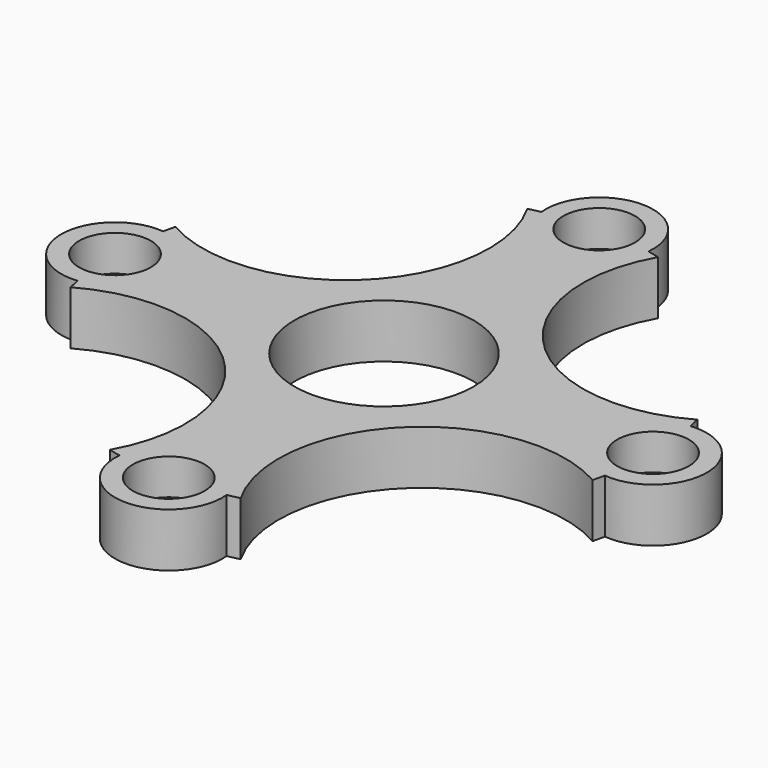
from build123d import *

# Parameters (mm, degrees)
F0_R      = 20
F1_DEPTH  = 3
F2_R      = 5
F3_DEPTH  = 25
F4_R      = 2
F5_DEPTH  = 2
F6_R      = 8
F7_DEPTH  = 25
F8_SIZE   = 1.5
F9_R      = 28.420768
F10_DEPTH = 25


with BuildPart() as f1:
    # F0 (on Top) → F1 (new body)
    with BuildSketch(Plane.XY):
        Circle(F0_R)
    extrude(amount=F1_DEPTH)

    # F2 (on face) → F3 (cut)
    with BuildSketch(Plane.XY.offset(3)):
        Circle(F2_R)
    extrude(amount=-F3_DEPTH, mode=Mode.SUBTRACT)

    # F4 (on face) → F5 (cut)
    with BuildSketch(Plane.XY.offset(3)):
        with Locations((0, 15)):
            Circle(F4_R)
        with Locations((15, 0)):
            Circle(F4_R)
        with Locations((0, -15)):
            Circle(F4_R)
        with Locations((-15, 0)):
            Circle(F4_R)
    extrude(amount=-F5_DEPTH, mode=Mode.SUBTRACT)

    # F6 (on face) → F7 (cut)
    with BuildSketch(Plane.XY.offset(3)):
        with Locations((-10.606602, 10.606602)):
            Circle(F6_R)
        with Locations((10.606602, 10.606602)):
            Circle(F6_R)
        with Locations((10.606602, -10.606602)):
            Circle(F6_R)
        with Locations((-10.606602, -10.606602)):
            Circle(F6_R)
    extrude(amount=-F7_DEPTH, mode=Mode.SUBTRACT)

    # F8
    f8_edges = [f1.edges().sort_by_distance(p)[0] for p in [
        (-20, 0, 3),
    ]]
    chamfer(f8_edges, length=F8_SIZE)

    # F9 (on face) → F10 (cut)
    with BuildSketch(Plane.XY.offset(3)):
        with Locations((1.058917, 0)):
            Circle(F9_R)
        with BuildLine():
            ThreePointArc((-14.7, -2.984962), (-18, 0), (-14.7, 2.984962))
            ThreePointArc((-14.7, 2.984962), (-10.606602, 10.606602), (-2.984962, 14.7))
            ThreePointArc((-2.984962, 14.7), (0, 18), (2.984962, 14.7))
            ThreePointArc((2.984962, 14.7), (10.606602, 10.606602), (14.7, 2.984962))
            ThreePointArc((14.7, 2.984962), (18, 0), (14.7, -2.984962))
            ThreePointArc((14.7, -2.984962), (10.606602, -10.606602), (2.984962, -14.7))
            ThreePointArc((2.984962, -14.7), (0, -18), (-2.984962, -14.7))
            ThreePointArc((-2.984962, -14.7), (-10.606602, -10.606602), (-14.7, -2.984962))
        make_face(mode=Mode.SUBTRACT)
        with Locations((1.058917, 0)):
            Circle(F9_R)
        with BuildLine():
            ThreePointArc((-14.7, -2.984962), (-18, 0), (-14.7, 2.984962))
            ThreePointArc((-14.7, 2.984962), (-10.606602, 10.606602), (-2.984962, 14.7))
            ThreePointArc((-2.984962, 14.7), (0, 18), (2.984962, 14.7))
            ThreePointArc((2.984962, 14.7), (10.606602, 10.606602), (14.7, 2.984962))
            ThreePointArc((14.7, 2.984962), (18, 0), (14.7, -2.984962))
            ThreePointArc((14.7, -2.984962), (10.606602, -10.606602), (2.984962, -14.7))
            ThreePointArc((2.984962, -14.7), (0, -18), (-2.984962, -14.7))
            ThreePointArc((-2.984962, -14.7), (-10.606602, -10.606602), (-14.7, -2.984962))
        make_face(mode=Mode.SUBTRACT)
        with Locations((1.058917, 0)):
            Circle(F9_R)
        with BuildLine():
            ThreePointArc((-14.7, -2.984962), (-18, 0), (-14.7, 2.984962))
            ThreePointArc((-14.7, 2.984962), (-10.606602, 10.606602), (-2.984962, 14.7))
            ThreePointArc((-2.984962, 14.7), (0, 18), (2.984962, 14.7))
            ThreePointArc((2.984962, 14.7), (10.606602, 10.606602), (14.7, 2.984962))
            ThreePointArc((14.7, 2.984962), (18, 0), (14.7, -2.984962))
            ThreePointArc((14.7, -2.984962), (10.606602, -10.606602), (2.984962, -14.7))
            ThreePointArc((2.984962, -14.7), (0, -18), (-2.984962, -14.7))
            ThreePointArc((-2.984962, -14.7), (-10.606602, -10.606602), (-14.7, -2.984962))
        make_face(mode=Mode.SUBTRACT)
        with Locations((1.058917, 0)):
            Circle(F9_R)
        with BuildLine():
            ThreePointArc((-14.7, -2.984962), (-18, 0), (-14.7, 2.984962))
            ThreePointArc((-14.7, 2.984962), (-10.606602, 10.606602), (-2.984962, 14.7))
            ThreePointArc((-2.984962, 14.7), (0, 18), (2.984962, 14.7))
            ThreePointArc((2.984962, 14.7), (10.606602, 10.606602), (14.7, 2.984962))
            ThreePointArc((14.7, 2.984962), (18, 0), (14.7, -2.984962))
            ThreePointArc((14.7, -2.984962), (10.606602, -10.606602), (2.984962, -14.7))
            ThreePointArc((2.984962, -14.7), (0, -18), (-2.984962, -14.7))
            ThreePointArc((-2.984962, -14.7), (-10.606602, -10.606602), (-14.7, -2.984962))
        make_face(mode=Mode.SUBTRACT)
        with Locations((1.058917, 0)):
            Circle(F9_R)
        with BuildLine():
            ThreePointArc((-14.7, -2.984962), (-18, 0), (-14.7, 2.984962))
            ThreePointArc((-14.7, 2.984962), (-10.606602, 10.606602), (-2.984962, 14.7))
            ThreePointArc((-2.984962, 14.7), (0, 18), (2.984962, 14.7))
            ThreePointArc((2.984962, 14.7), (10.606602, 10.606602), (14.7, 2.984962))
            ThreePointArc((14.7, 2.984962), (18, 0), (14.7, -2.984962))
            ThreePointArc((14.7, -2.984962), (10.606602, -10.606602), (2.984962, -14.7))
            ThreePointArc((2.984962, -14.7), (0, -18), (-2.984962, -14.7))
            ThreePointArc((-2.984962, -14.7), (-10.606602, -10.606602), (-14.7, -2.984962))
        make_face(mode=Mode.SUBTRACT)
    extrude(amount=-F10_DEPTH, mode=Mode.SUBTRACT)


solid = f1.part
